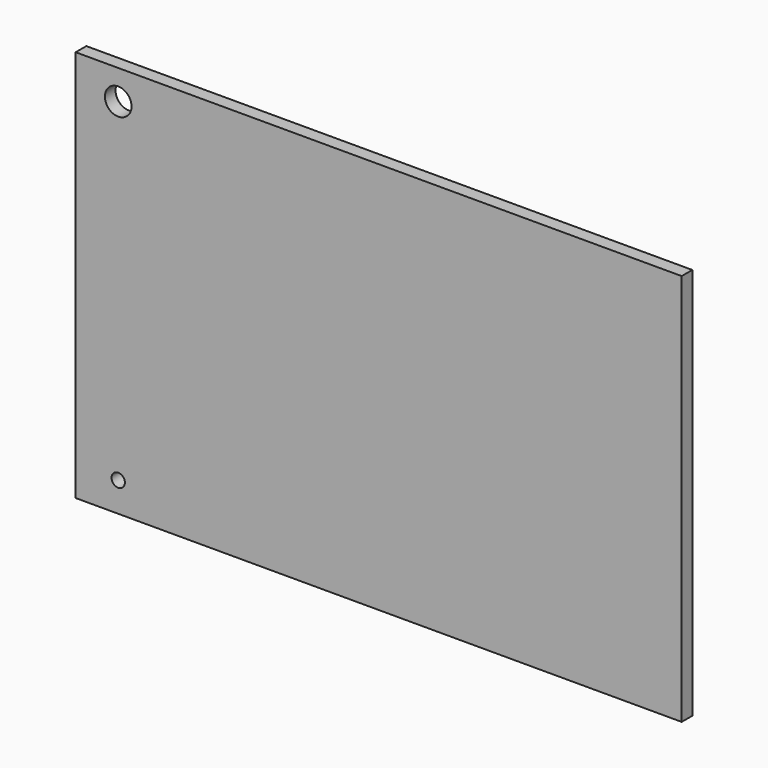
from build123d import *

# Parameters (mm, degrees)
F0_W     = 136.5267336369
F0_H     = 88.4205549955
F1_DEPTH = 3
F2_D     = 30
F3_W     = 117.3540726304
F3_H     = 75.1073509455
F4_DEPTH = 3
F5_D     = 6
F6_D     = 3


with BuildPart() as f1:
    # F0 (on Front) → F1 (new body)
    with BuildSketch(Plane.XZ):
        Rectangle(F0_W, F0_H)
    extrude(amount=F1_DEPTH)

    # F2 (through all)
    with Locations(Plane(origin=(0, 0, 0), x_dir=(1, 0, 0), z_dir=(0, 1, 0))):
        with Locations((0, 0)):
            Hole(F2_D / 2)

    # F3 (on Front) → F4 (join)
    with BuildSketch(Plane.XZ):
        Rectangle(F3_W, F3_H)
    extrude(amount=F4_DEPTH)

    # F5 (through all)
    with Locations(Plane(origin=(0, 0, 0), x_dir=(1, 0, 0), z_dir=(0, 1, 0))):
        with Locations((-58.6770363152, -37.5536754727)):
            Hole(F5_D / 2)

    # F6 (through all)
    with Locations(Plane(origin=(0, 0, 0), x_dir=(1, 0, 0), z_dir=(0, 1, 0))):
        with Locations((-58.6770363152, 37.5536754727), (-58.6770363152, -37.5536754727)):
            Hole(F6_D / 2)


solid = f1.part
